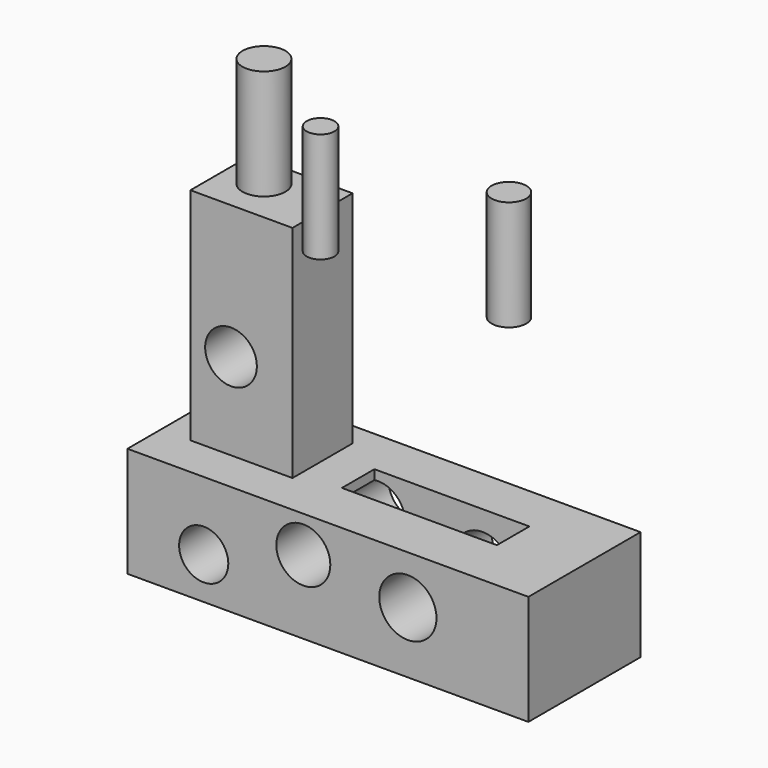
from build123d import *

# Parameters (mm, degrees)
F0_W      = 92.4938283861
F0_H      = 32.3444707319
F1_DEPTH  = 25.4
F2_W      = 23.5490426421
F2_H      = 17.3071268946
F3_DEPTH  = 25.4
F4_DEPTH  = 25.4
F5_W      = 35.7491457835
F5_H      = 9.3628708273
F6_DEPTH  = 12.7
F7_R      = 6.2290064901
F8_DEPTH  = 32.3454707319
F9_R      = 5.9649434691
F9_R_2    = 5.6744676083
F9_R_3    = 6.5992382135
F10_DEPTH = 32.3454707319
F11_R     = 4.9550177223
F12_DEPTH = 25.4
F11_R_2   = 3.2099639101
F11_R_3   = 4.0124537352


with BuildPart() as f1:
    # F0 (on Top) → F1 (new body)
    with BuildSketch(Plane.XY):
        with Locations((-2.837235108, 28.3723422326)):
            Rectangle(F0_W, F0_H)
    extrude(amount=F1_DEPTH)

    # F2 (on face) → F3 (join)
    with BuildSketch(Plane.XY.offset(25.4)):
        with Locations((-30.500266701, 30.5002657697)):
            Rectangle(F2_W, F2_H)
    extrude(amount=F3_DEPTH)

    # F4 (add): a face of the model
    f4_faces = [f1.faces().sort_by_distance(p)[0] for p in [
        (-30.500266701, 30.5002657697, 50.8),
    ]]
    extrude(f4_faces, amount=F4_DEPTH)

    # F5 (on face) → F6 (cut)
    with BuildSketch(Plane.XY.offset(25.4)):
        with Locations((8.5117011331, 29.081649147)):
            Rectangle(F5_W, F5_H)
    extrude(amount=-F6_DEPTH, mode=Mode.SUBTRACT)

    # F7 (on face) → F8 (cut, through all)
    with BuildSketch(Plane.XZ.offset(-12.2001068667)):
        with Locations((-8.5117015988, 17.0234050602)):
            Circle(F7_R)
    extrude(amount=-F8_DEPTH, mode=Mode.SUBTRACT)

    # F9 (on face) → F10 (cut, through all)
    with BuildSketch(Plane.XZ.offset(-12.2001068667)):
        with Locations((-32.9119153321, 45.3957468271)):
            Circle(F9_R)
        with Locations((-31.4932987094, 9.6465954557)):
            Circle(F9_R_2)
        with Locations((15.6047875062, 14.1861708835)):
            Circle(F9_R_3)
    extrude(amount=-F10_DEPTH, mode=Mode.SUBTRACT)

    # F11 (on face) → F12 (join)
    with BuildSketch(Plane.XY.offset(76.2)):
        with Locations((-33.4793627262, 32.0607461035)):
            Circle(F11_R)
    extrude(amount=F12_DEPTH)


with BuildPart() as f12:
    # F11 (on face) → F12, piece 2 (new body)
    with BuildSketch(Plane.XY.offset(76.2)):
        with Locations((-9.0791489929, 17.8745742887)):
            Circle(F11_R_2)
    extrude(amount=F12_DEPTH)


with BuildPart() as f12b:
    # F11 (on face) → F12, piece 3 (new body)
    with BuildSketch(Plane.XY.offset(76.2)):
        with Locations((33.4793627262, 19.009469077)):
            Circle(F11_R_3)
    extrude(amount=F12_DEPTH)


solid = Compound([f1.part, f12.part, f12b.part])
